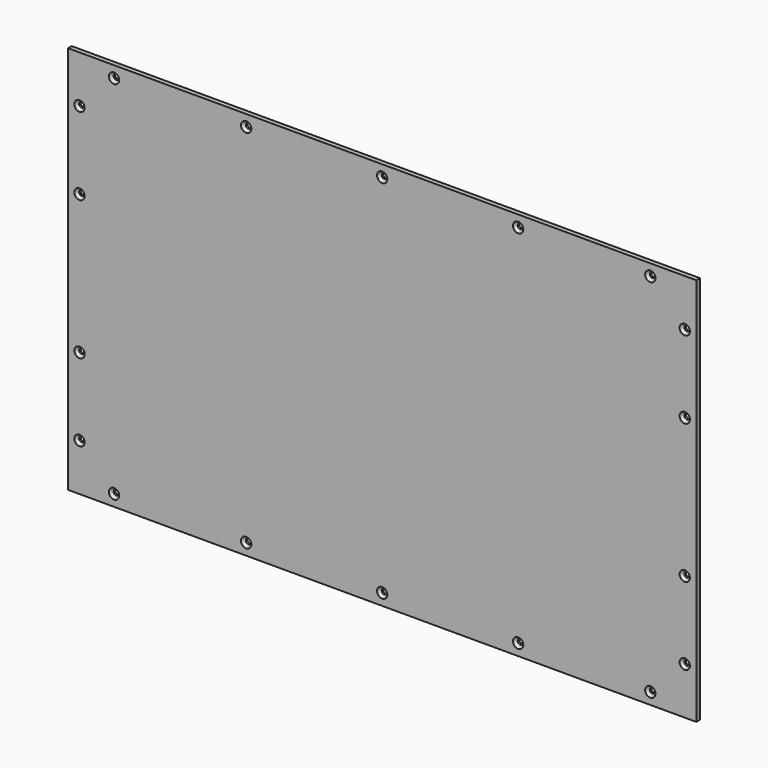
from build123d import *

# Parameters (mm, degrees)
F1_W                 = 546.6
F1_H                 = 338.32
F1_W_2               = 478.6
F1_H_2               = 270.32
F2_DEPTH             = 4
F3_D                 = 4.4
F3_CSINK_D           = 8.96
F3_CSINK_ANGLE       = 90
F3_ON_F1_D           = 4.4
F3_ON_F1_CSINK_D     = 8.96
F3_ON_F1_CSINK_ANGLE = 90


with BuildPart() as f2:
    # F1 (on Front) → F2 (new body)
    with BuildSketch(Plane.XZ):
        with Locations((273.3, 149.6)):
            Rectangle(F1_W, F1_H)
        with Locations((273.3, 149.6)):
            Rectangle(F1_W_2, F1_H_2, mode=Mode.SUBTRACT)
        with Locations((273.3, 149.6)):
            Rectangle(F1_W_2, F1_H_2)
    extrude(amount=-F2_DEPTH)

    # F3 (through all)
    with Locations(Plane.XZ):
        with Locations((10, 277.7), (10, 210.2), (10, 89), (10, 21.5), (536.6, 21.5), (536.6, 89), (536.6, 210.2), (536.6, 277.7)):
            CounterSinkHole(F3_D / 2, F3_CSINK_D / 2, counter_sink_angle=F3_CSINK_ANGLE)

    # F3 on F1 (through all)
    with Locations(Plane.XZ):
        with Locations((40, 308.76), (155, 308.76), (273.3, 308.76), (391.6, 308.76), (506.6, 308.76), (40, -9.56), (155, -9.56), (273.3, -9.56), (391.6, -9.56), (506.6, -9.56)):
            CounterSinkHole(F3_ON_F1_D / 2, F3_ON_F1_CSINK_D / 2, counter_sink_angle=F3_ON_F1_CSINK_ANGLE)


solid = f2.part
